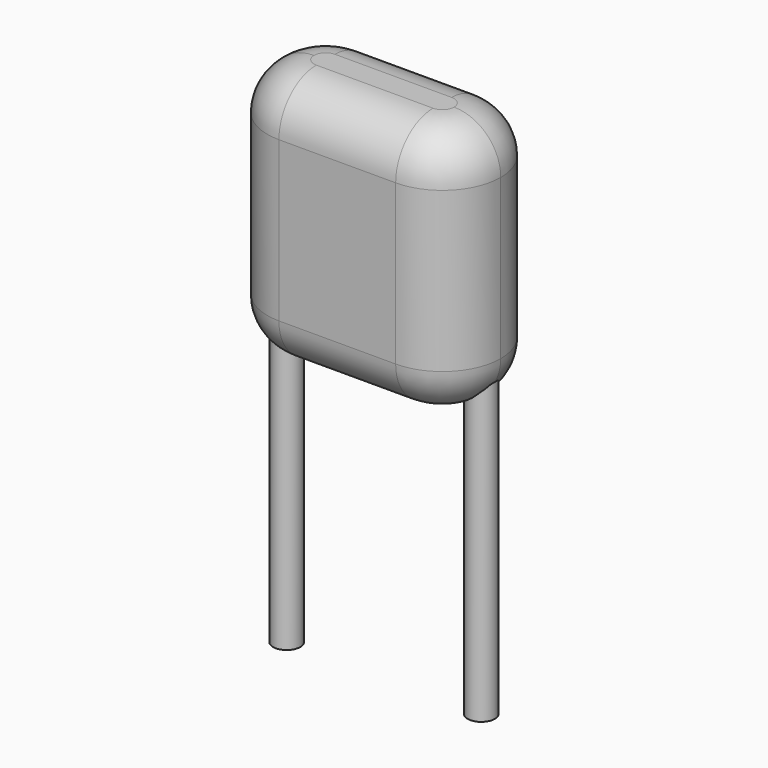
from build123d import *

# Parameters (mm, degrees)
SKETCH_R     = 0.35
PAD_DEPTH    = 8
PAD002_DEPTH = 6.5
FILLET_R     = 1.2
FILLET001_R  = 1.2


with BuildPart() as pad:
    # Sketch → Pad (new body)
    with BuildSketch(Plane.XY.offset(4)):
        Circle(SKETCH_R)
        with Locations((5, 0)):
            Circle(SKETCH_R)
    extrude(amount=-PAD_DEPTH)


with BuildPart() as fillet001:
    # Sketch003 → Pad002 (new body)
    with BuildSketch(Plane.XY.offset(3)):
        with BuildLine():
            Line((1, 1.5), (4, 1.5))
            ThreePointArc((5.5, 0), (5.06066, 1.06066), (4, 1.5))
            ThreePointArc((4, -1.5), (5.06066, -1.06066), (5.5, 0))
            Line((4, -1.5), (1, -1.5))
            ThreePointArc((-0.5, 0), (-0.06066, -1.06066), (1, -1.5))
            ThreePointArc((1, 1.5), (-0.06066, 1.06066), (-0.5, 0))
        make_face()
    extrude(amount=PAD002_DEPTH)

    # Fillet
    fillet_edges = [fillet001.edges().sort_by_distance(p)[0] for p in [
        (2.5, 1.5, 9.5),
        (-0.06066, 1.06066, 9.5),
        (-0.06066, -1.06066, 9.5),
        (2.5, -1.5, 9.5),
        (5.06066, -1.06066, 9.5),
        (5.06066, 1.06066, 9.5),
    ]]
    fillet(fillet_edges, radius=FILLET_R)

    # Fillet001
    fillet001_edges = [fillet001.edges().sort_by_distance(p)[0] for p in [
        (5.06066, -1.06066, 3),
        (5.06066, 1.06066, 3),
        (2.5, 1.5, 3),
        (2.5, -1.5, 3),
        (-0.06066, -1.06066, 3),
        (-0.06066, 1.06066, 3),
    ]]
    fillet(fillet001_edges, radius=FILLET001_R)


solid = Compound([pad.part, fillet001.part])
